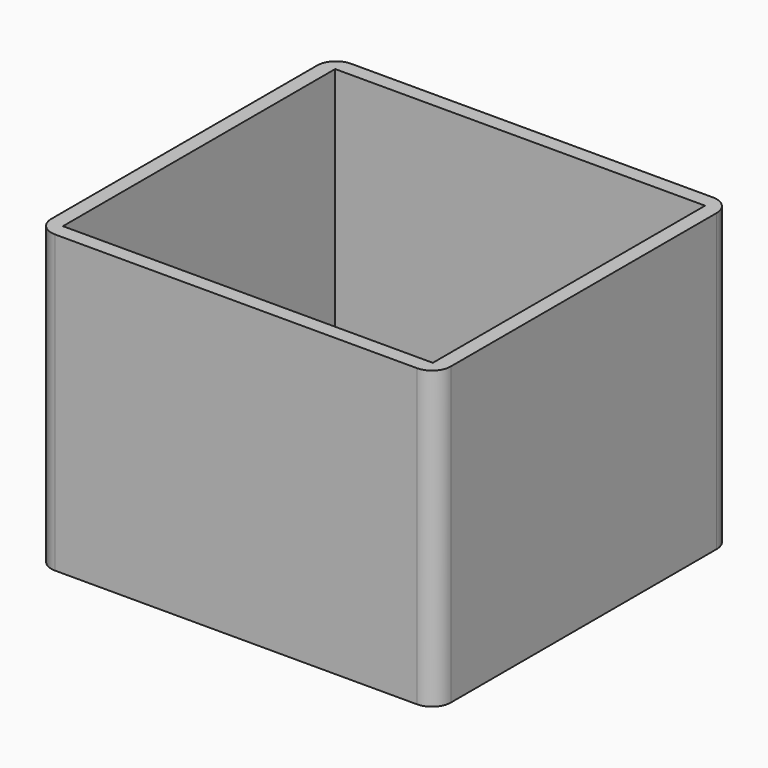
from build123d import *

# Parameters (mm, degrees)
F0_W     = 108
F0_H     = 100
F0_W_2   = 100
F0_H_2   = 92
F1_DEPTH = 80
F2_R     = 5.08
F3_R     = 5.08


with BuildPart() as f1:
    # F0 (on Top) → F1 (new body)
    with BuildSketch(Plane.XY):
        Rectangle(F0_W, F0_H)
        Rectangle(F0_W_2, F0_H_2, mode=Mode.SUBTRACT)
    extrude(amount=F1_DEPTH)

    # F2
    f2_edges = [f1.edges().sort_by_distance(p)[0] for p in [
        (-54, -50, 40),
    ]]
    fillet(f2_edges, radius=F2_R)

    # F3
    f3_edges = [f1.edges().sort_by_distance(p)[0] for p in [
        (54, -50, 40),
        (54, 50, 40),
        (-54, 50, 40),
    ]]
    fillet(f3_edges, radius=F3_R)


solid = f1.part
